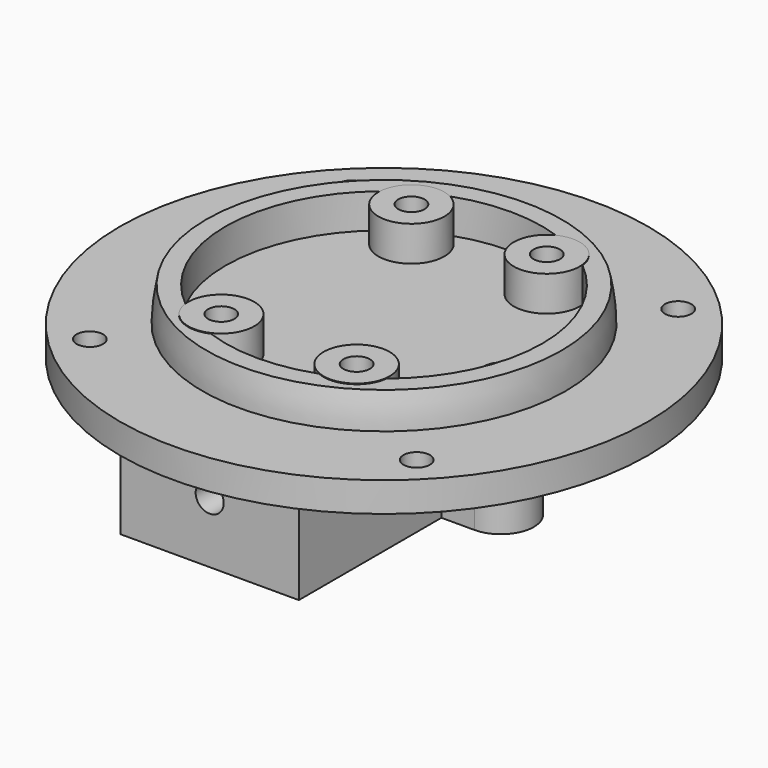
from build123d import *

# Parameters (mm, degrees)
SKETCH142_R               = 2.5
EXTRUDE046_DEPTH          = 19
EXTRUDE047_DEPTH          = 19
CYLINDER185_R             = 2
CYLINDER185_DEPTH         = 10
CYLINDER186_R             = 2
CYLINDER186_DEPTH         = 10
CYLINDER187_R             = 2
CYLINDER187_DEPTH         = 10
CYLINDER184_R             = 2
CYLINDER184_DEPTH         = 10
FUSION121_PLACEMENT_ANGLE = 45
CYLINDER180_R             = 2
CYLINDER180_DEPTH         = 10
CYLINDER181_R             = 2
CYLINDER181_DEPTH         = 10
CYLINDER182_R             = 2
CYLINDER182_DEPTH         = 10
CYLINDER183_R             = 2
CYLINDER183_DEPTH         = 10
CYLINDER170_R             = 2
CYLINDER170_DEPTH         = 10
CYLINDER171_R             = 2
CYLINDER171_DEPTH         = 10
CYLINDER172_R             = 2
CYLINDER172_DEPTH         = 10
CYLINDER169_R             = 2
CYLINDER169_DEPTH         = 10
FUSION111_PLACEMENT_ANGLE = 45
CYLINDER176_R             = 5
CYLINDER176_DEPTH         = 5.82
CYLINDER177_R             = 5
CYLINDER177_DEPTH         = 5.82
CYLINDER178_R             = 5
CYLINDER178_DEPTH         = 5.82
CYLINDER179_R             = 5
CYLINDER179_DEPTH         = 5.82
CYLINDER173_R             = 40
CYLINDER173_DEPTH         = 4.5
CYLINDER174_R             = 24
CYLINDER174_DEPTH         = 7
EXTRUDE044_DEPTH          = 33
SKETCH141_W               = 27
SKETCH141_H               = 14.5
SKETCH141_R               = 2.125
EXTRUDE045_DEPTH          = 4


with BuildPart() as lightwire:
    # Sketch142 → Extrude046 (new body)
    with BuildSketch(Plane.XY.offset(-24.25)):
        with Locations((18.5, -375)):
            Circle(SKETCH142_R)
    extrude(amount=EXTRUDE046_DEPTH)


with BuildPart() as extrude047:
    # Sketch143 → Extrude047 (new body)
    with BuildSketch(Plane.XY.offset(-24.25)):
        with BuildLine():
            ThreePointArc((18.5, -380), (23.5, -375), (18.5, -370))
            Line((13.5, -370), (18.5, -370))
            Line((13.5, -380), (13.5, -370))
            Line((18.5, -380), (13.5, -380))
        make_face()
    extrude(amount=EXTRUDE047_DEPTH)


with BuildPart() as obj1:
    # Cylinder185 → Cylinder185 (new body)
    with BuildSketch(Plane(origin=(35, 0, 65), x_dir=(1, 0, 0), z_dir=(0, 0, 1))):
        Circle(CYLINDER185_R)
    extrude(amount=CYLINDER185_DEPTH)


with BuildPart() as obj2:
    # Cylinder186 → Cylinder186 (new body)
    with BuildSketch(Plane(origin=(0, 35, 65), x_dir=(1, 0, 0), z_dir=(0, 0, 1))):
        Circle(CYLINDER186_R)
    extrude(amount=CYLINDER186_DEPTH)


with BuildPart() as obj3:
    # Cylinder187 → Cylinder187 (new body)
    with BuildSketch(Plane(origin=(0, -35, 65), x_dir=(1, 0, 0), z_dir=(0, 0, 1))):
        Circle(CYLINDER187_R)
    extrude(amount=CYLINDER187_DEPTH)


with BuildPart() as fusion121:
    # Cylinder184 → Cylinder184 (new body)
    with BuildSketch(Plane(origin=(-35, 0, 65), x_dir=(1, 0, 0), z_dir=(0, 0, 1))):
        Circle(CYLINDER184_R)
    extrude(amount=CYLINDER184_DEPTH)

    # Fusion121: union obj1, obj2, obj3
    add(obj1.part)
    add(obj2.part)
    add(obj3.part)


with BuildPart() as fusion121_1:
    # Fusion121 placement: moved
    add(fusion121.part.moved(Location((0, -374, -75))).rotate(Axis((0, -374, -75), (0, 0, -1)), FUSION121_PLACEMENT_ANGLE))


with BuildPart() as cylinder180:
    # Cylinder180 → Cylinder180 (new body)
    with BuildSketch(Plane(origin=(0, -21, 0), x_dir=(1, 0, 0), z_dir=(0, 0, 1))):
        Circle(CYLINDER180_R)
    extrude(amount=CYLINDER180_DEPTH)


with BuildPart() as m3heatsetcuts031:
    # Cylinder181 → Cylinder181 (new body)
    with BuildSketch(Plane(origin=(20.5, -21, 0), x_dir=(1, 0, 0), z_dir=(0, 0, 1))):
        Circle(CYLINDER181_R)
    extrude(amount=CYLINDER181_DEPTH)

    # Fusion118: union Cylinder180
    add(cylinder180.part)


with BuildPart() as m3heatsetcuts031_1:
    # Fusion118 placement: moved
    add(m3heatsetcuts031.part.moved(Location((-5, 39, 70))))


with BuildPart() as cylinder182:
    # Cylinder182 → Cylinder182 (new body)
    with BuildSketch(Plane(origin=(0, -21, 0), x_dir=(1, 0, 0), z_dir=(0, 0, 1))):
        Circle(CYLINDER182_R)
    extrude(amount=CYLINDER182_DEPTH)


with BuildPart() as m3heatsetcuts030:
    # Cylinder183 → Cylinder183 (new body)
    with BuildSketch(Plane(origin=(20.5, -21, 0), x_dir=(1, 0, 0), z_dir=(0, 0, 1))):
        Circle(CYLINDER183_R)
    extrude(amount=CYLINDER183_DEPTH)

    # Fusion119: union Cylinder182
    add(cylinder182.part)


with BuildPart() as m3heatsetcuts030_1:
    # Fusion119 placement: moved
    add(m3heatsetcuts030.part.moved(Location((-5, 3, 70))))

    # Fusion117: union m3HeatSetCuts031
    add(m3heatsetcuts031_1.part)


with BuildPart() as m3heatsetcuts030_2:
    # Fusion117 placement: moved
    add(m3heatsetcuts030_1.part.moved(Location((128.75, 10, -1))))


with BuildPart() as obj4:
    # Cylinder170 → Cylinder170 (new body)
    with BuildSketch(Plane(origin=(35, 0, 65), x_dir=(1, 0, 0), z_dir=(0, 0, 1))):
        Circle(CYLINDER170_R)
    extrude(amount=CYLINDER170_DEPTH)


with BuildPart() as obj5:
    # Cylinder171 → Cylinder171 (new body)
    with BuildSketch(Plane(origin=(0, 35, 65), x_dir=(1, 0, 0), z_dir=(0, 0, 1))):
        Circle(CYLINDER171_R)
    extrude(amount=CYLINDER171_DEPTH)


with BuildPart() as obj6:
    # Cylinder172 → Cylinder172 (new body)
    with BuildSketch(Plane(origin=(0, -35, 65), x_dir=(1, 0, 0), z_dir=(0, 0, 1))):
        Circle(CYLINDER172_R)
    extrude(amount=CYLINDER172_DEPTH)


with BuildPart() as fusion120:
    # Cylinder169 → Cylinder169 (new body)
    with BuildSketch(Plane(origin=(-35, 0, 65), x_dir=(1, 0, 0), z_dir=(0, 0, 1))):
        Circle(CYLINDER169_R)
    extrude(amount=CYLINDER169_DEPTH)

    # Fusion111: union obj4, obj5, obj6
    add(obj4.part)
    add(obj5.part)
    add(obj6.part)


with BuildPart() as fusion120_1:
    # Fusion111 placement: moved
    add(fusion120.part.moved(Location((0, -374, -75))).rotate(Axis((0, -374, -75), (0, 0, -1)), FUSION111_PLACEMENT_ANGLE))

    # Fusion120: union m3HeatSetCuts030
    add(m3heatsetcuts030_2.part)


with BuildPart() as cylinder176:
    # Cylinder176 → Cylinder176 (new body)
    with BuildSketch(Plane(origin=(0, -21, 0), x_dir=(1, 0, 0), z_dir=(0, 0, 1))):
        Circle(CYLINDER176_R)
    extrude(amount=CYLINDER176_DEPTH)


with BuildPart() as m3heatsetcuts027:
    # Cylinder177 → Cylinder177 (new body)
    with BuildSketch(Plane(origin=(20.5, -21, 0), x_dir=(1, 0, 0), z_dir=(0, 0, 1))):
        Circle(CYLINDER177_R)
    extrude(amount=CYLINDER177_DEPTH)

    # Fusion112: union Cylinder176
    add(cylinder176.part)


with BuildPart() as m3heatsetcuts027_1:
    # Fusion112 placement: moved
    add(m3heatsetcuts027.part.moved(Location((-5, 39, 70))))


with BuildPart() as cylinder178:
    # Cylinder178 → Cylinder178 (new body)
    with BuildSketch(Plane(origin=(0, -21, 0), x_dir=(1, 0, 0), z_dir=(0, 0, 1))):
        Circle(CYLINDER178_R)
    extrude(amount=CYLINDER178_DEPTH)


with BuildPart() as m3heatsetcuts029:
    # Cylinder179 → Cylinder179 (new body)
    with BuildSketch(Plane(origin=(20.5, -21, 0), x_dir=(1, 0, 0), z_dir=(0, 0, 1))):
        Circle(CYLINDER179_R)
    extrude(amount=CYLINDER179_DEPTH)

    # Fusion113: union Cylinder178
    add(cylinder178.part)


with BuildPart() as m3heatsetcuts029_1:
    # Fusion113 placement: moved
    add(m3heatsetcuts029.part.moved(Location((-5, 3, 70))))

    # Fusion114: union m3HeatSetCuts027
    add(m3heatsetcuts027_1.part)


with BuildPart() as m3heatsetcuts029_2:
    # Fusion114 placement: moved
    add(m3heatsetcuts029_1.part.moved(Location((128.75, 10, -1))))


with BuildPart() as base015:
    # Cylinder173 → Cylinder173 (new body)
    with BuildSketch(Plane(origin=(136, 0, 65), x_dir=(1, 0, 0), z_dir=(0, 0, 1))):
        Circle(CYLINDER173_R)
    extrude(amount=CYLINDER173_DEPTH)


with BuildPart() as basecut004:
    # Cylinder174 → Cylinder174 (new body)
    with BuildSketch(Plane(origin=(5, 0, 74), x_dir=(1, 0, 0), z_dir=(0, 0, 1))):
        Circle(CYLINDER174_R)
    extrude(amount=CYLINDER174_DEPTH)


with BuildPart() as lightmodule:
    # Sphere006 → Sphere006 (revolve)
    with BuildSketch(Plane(origin=(5, 0, 74), x_dir=(1, 0, 0), z_dir=(0, -1, 0))):
        with BuildLine():
            ThreePointArc((27.5, 0), (27.349352, 2.874533), (26.899059, 5.717571))
            Line((26.899059, 5.717571), (0, 5.717571))
            Line((0, 5.717571), (0, 0))
            Line((0, 0), (27.5, 0))
        make_face()
    revolve(axis=Axis((5, 0, 74), (0, 0, 1)))

    # Cut058: cut baseCut004
    add(basecut004.part, mode=Mode.SUBTRACT)


with BuildPart() as lightmodule_1:
    # Cut058 placement: moved
    add(lightmodule.part.moved(Location((131, 0, -5))))

    # Fusion115: union base015
    add(base015.part)


with BuildPart() as lightmodule_2:
    # Fusion115 placement: moved
    add(lightmodule_1.part.moved(Location((-2, 10, 0))))

    # Fusion116: union m3HeatSetCuts029
    add(m3heatsetcuts029_2.part)

    # Cut059: cut Fusion120
    add(fusion120_1.part, mode=Mode.SUBTRACT)


with BuildPart() as lightmodule_3:
    # Cut059 placement: moved
    add(lightmodule_2.part.moved(Location((-134, -384, -74.75))))

    # Cut060: cut Fusion121
    add(fusion121_1.part, mode=Mode.SUBTRACT)


with BuildPart() as extrude044:
    # Sketch140 → Extrude044 (new body)
    with BuildSketch(Plane.XZ.offset(370)):
        Polygon((-13.5, -9.75), (-9.5, -9.75), (-9.5, -20.25), (9.5, -20.25), (9.5, -9.75), (13.5, -9.75), (13.5, -24.25), (-13.5, -24.25), align=None)
    extrude(amount=EXTRUDE044_DEPTH)


with BuildPart() as lightmodule015:
    # Sketch141 → Extrude045 (new body)
    with BuildSketch(Plane.XZ.offset(403)):
        with Locations((0, -17)):
            Rectangle(SKETCH141_W, SKETCH141_H)
        with Locations((0, -15)):
            Circle(SKETCH141_R, mode=Mode.SUBTRACT)
    extrude(amount=EXTRUDE045_DEPTH)

    # Fusion122: union lightModule, Extrude044
    add(lightmodule_3.part)
    add(extrude044.part)

    # Fusion123: union Extrude047
    add(extrude047.part)

    # Cut061: cut lightWire
    add(lightwire.part, mode=Mode.SUBTRACT)


solid = lightmodule015.part
